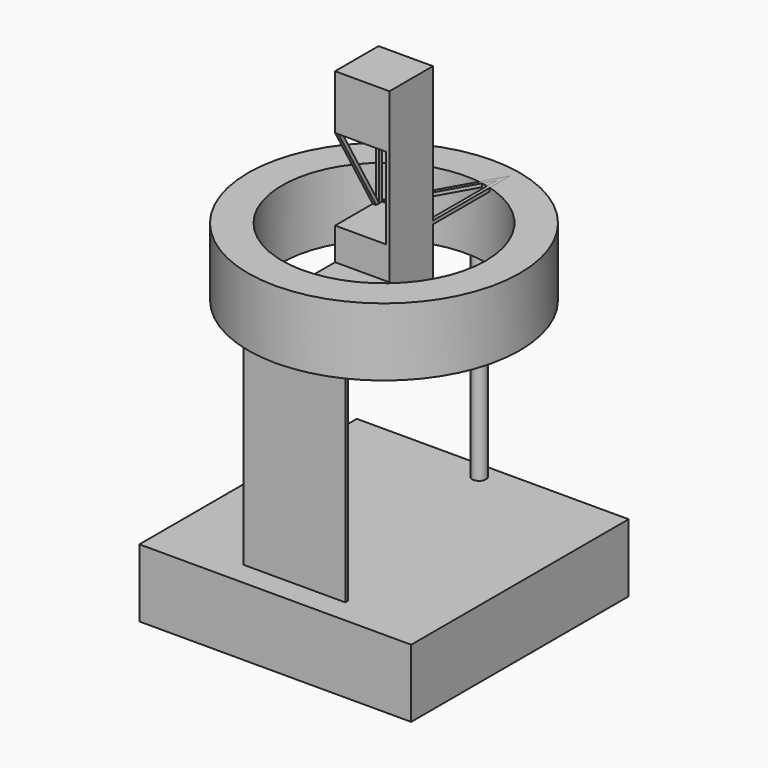
from build123d import *

# Parameters (mm, degrees)
F0_W          = 50.8
F0_H          = 50.8
F1_DEPTH      = 12.7
F2_R          = 25.4
F2_R_2        = 19.05
F3_DEPTH      = 63.5
F4_W          = 76.2
F4_H          = 38.1
F5_DEPTH      = 25.401
F5_DEPTH_BACK = 25.401
F6_R          = 1.27
F7_DEPTH      = 38.1
F6_W          = 19.05
F6_H          = 0.635
F8_W          = 10.16
F8_H          = 10.16
F9_DEPTH      = 12.7
F9_DEPTH_BACK = 25.4
F10_W         = 15.24
F10_H         = 0.635
F11_DEPTH     = 10.16
F12_W         = 8.89
F12_H         = 15.24
F13_DEPTH     = 10.16
F15_DEPTH     = 0.635
F17_DEPTH     = 5.5626


with BuildPart() as f1:
    # F0 (on Top) → F1 (new body)
    with BuildSketch(Plane.XY):
        Rectangle(F0_W, F0_H)
    extrude(amount=F1_DEPTH)

    # F2 (on Top) → F3 (join)
    with BuildSketch(Plane.XY):
        Circle(F2_R)
        Circle(F2_R_2, mode=Mode.SUBTRACT)
    extrude(amount=F3_DEPTH)

    # F4 (on Front) → F5 (cut, two sides)
    with BuildSketch(Plane.XZ) as f5_sk:
        with Locations((-2.8884448111, 31.75)):
            Rectangle(F4_W, F4_H)
    extrude(amount=F5_DEPTH, mode=Mode.SUBTRACT)
    extrude(f5_sk.sketch, amount=-F5_DEPTH_BACK, mode=Mode.SUBTRACT)


with BuildPart() as f7:
    # F6 (on face) → F7 (new body, through all)
    with BuildSketch(Plane(origin=(0, 0, 50.8), x_dir=(1, 0, 0), z_dir=(0, 0, -1))):
        with Locations((0, -22.225)):
            Circle(F6_R)
    extrude(amount=F7_DEPTH)


with BuildPart() as f7b:
    # F6 (on face) → F7, piece 2 (new body, through all)
    with BuildSketch(Plane(origin=(0, 0, 50.8), x_dir=(1, 0, 0), z_dir=(0, 0, -1))):
        with Locations((0, 20.6375)):
            Rectangle(F6_W, F6_H)
    extrude(amount=F7_DEPTH)


with BuildPart() as f9:
    # F8 (on face) → F9 (new body, two sides)
    with BuildSketch(Plane.XY.offset(63.5)) as f9_sk:
        Rectangle(F8_W, F8_H)
    extrude(amount=-F9_DEPTH)
    extrude(f9_sk.sketch, amount=F9_DEPTH_BACK)

    # F12 (on face) → F13 (cut, through all)
    with BuildSketch(Plane.XZ.offset(5.08)):
        with Locations((0, 71.12)):
            Rectangle(F12_W, F12_H)
    extrude(amount=-F13_DEPTH, mode=Mode.SUBTRACT)

    # F16 (on face) → F17 (cut)
    with BuildSketch(Plane.YZ.offset(-4.445)):
        Polygon((4.445, 63.5), (4.445, 78.74), (-4.3469090542, 78.74), align=None)
        Polygon((-5.08, 63.5), (3.7119090542, 63.5), (-5.08, 78.74), align=None)
    extrude(amount=-F17_DEPTH, mode=Mode.SUBTRACT)


with BuildPart() as f11:
    # F10 (on face) → F11 (new body, through all)
    with BuildSketch(Plane.YZ.offset(5.08)):
        with Locations((-12.7, 57.15)):
            Rectangle(F10_W, F10_H)
    extrude(amount=-F11_DEPTH)


with BuildPart() as f15:
    # F14 (on face) → F15 (new body)
    with BuildSketch(Plane.XY.offset(63.5)):
        Polygon((4.445, 5.08), (5.08, 5.08), (5.08, 23.1487335009), (-5.08, 5.08), (-4.3514974436, 5.08), (4.445, 20.7238551229), align=None)
    extrude(amount=-F15_DEPTH)


solid = Compound([f1.part, f7.part, f7b.part, f9.part, f11.part, f15.part])
